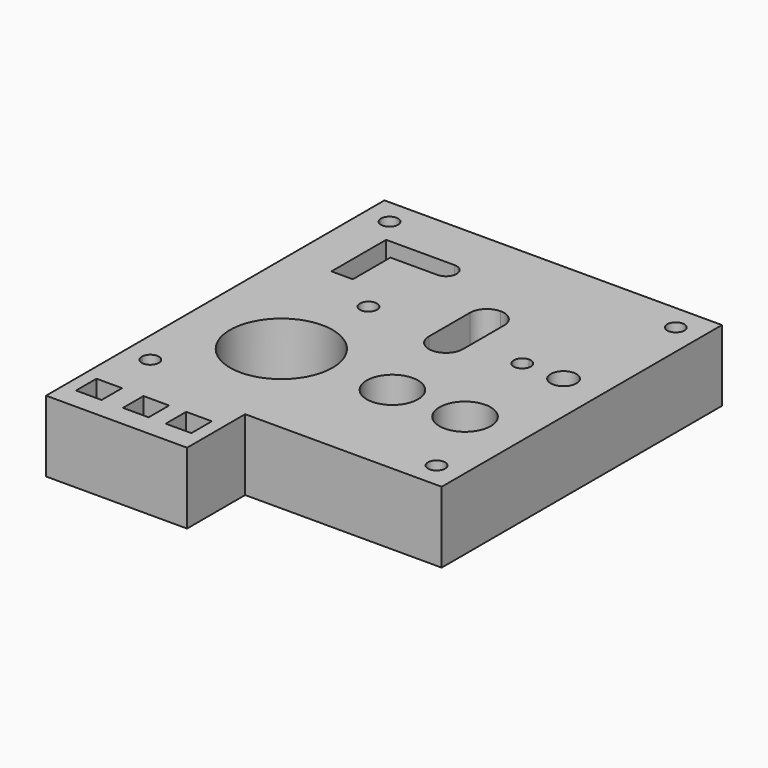
from build123d import *

# Parameters (mm, degrees)
F0_W     = 9
F0_H     = 9
F0_R     = 18
F0_R_2   = 9
F0_R_3   = 3
F0_R_4   = 4.5
F1_DEPTH = 25


with BuildPart() as f1:
    # F0 (on Top) → F1 (new body)
    with BuildSketch(Plane.XY):
        with BuildLine():
            Line((9, 0), (0, 0))
            Line((0, 0), (0, -9))
            Line((0, -9), (0, -18))
            Line((0, -18), (0, -52))
            Line((0, -52), (0, -114))
            Line((0, -114), (0, -132))
            Line((0, -132), (0, -148.5))
            Line((0, -148.5), (49.5, -148.5))
            Line((49.5, -148.5), (49.5, -123))
            Line((49.5, -123), (109.5, -123))
            Line((109.5, -123), (109.5, -117))
            ThreePointArc((109.5, -117), (107.3786796564, -111.8786796564), (112.5, -114))
            Line((112.5, -114), (118.5, -114))
            Line((118.5, -114), (118.5, -86.5))
            Line((118.5, -86.5), (118.5, -9))
            Line((118.5, -9), (118.5, 0))
            Line((118.5, 0), (109.5, 0))
            Line((109.5, 0), (90, 0))
            Line((90, 0), (66, 0))
            Line((66, 0), (39, 0))
            Line((39, 0), (9, 0))
        make_face()
        with Locations((9, -136.5)):
            Rectangle(F0_W, F0_H, mode=Mode.SUBTRACT)
        with Locations((25.5, -136.5)):
            Rectangle(F0_W, F0_H, mode=Mode.SUBTRACT)
        with BuildLine():
            ThreePointArc((9, -117), (6.8786796564, -116.1213203436), (6, -114))
            ThreePointArc((6, -114), (9, -111), (12, -114))
            ThreePointArc((12, -114), (11.1213203436, -116.1213203436), (9, -117))
        make_face(mode=Mode.SUBTRACT)
        with Locations((40.5, -136.5)):
            Rectangle(F0_W, F0_H, mode=Mode.SUBTRACT)
        with Locations((33, -86.5)):
            Circle(F0_R, mode=Mode.SUBTRACT)
        with Locations((72, -86.5)):
            Circle(F0_R_2, mode=Mode.SUBTRACT)
        with Locations((97.5, -86.5)):
            Circle(F0_R_2, mode=Mode.SUBTRACT)
        with BuildLine():
            ThreePointArc((39, -52), (36, -55), (33, -52))
            ThreePointArc((33, -52), (36, -49), (39, -52))
        make_face(mode=Mode.SUBTRACT)
        with BuildLine():
            Line((15, -18), (39, -18))
            ThreePointArc((39, -18), (42.75, -21.75), (39, -25.5))
            Line((39, -25.5), (22.5, -25.5))
            Line((22.5, -25.5), (22.5, -42))
            Line((22.5, -42), (15, -42))
            Line((15, -42), (15, -18))
        make_face(mode=Mode.SUBTRACT)
        with Locations((9, -9)):
            Circle(F0_R_3, mode=Mode.SUBTRACT)
        with BuildLine():
            ThreePointArc((66, -31.5), (70.2426406871, -33.2573593129), (72, -37.5))
            Line((72, -37.5), (72, -55.5))
            ThreePointArc((72, -55.5), (66, -61.5), (60, -55.5))
            Line((60, -55.5), (60, -37.5))
            ThreePointArc((60, -37.5), (61.7573593129, -33.2573593129), (66, -31.5))
        make_face(mode=Mode.SUBTRACT)
        with BuildLine():
            ThreePointArc((90, -49), (92.1213203436, -49.8786796564), (93, -52))
            ThreePointArc((93, -52), (87.8786796564, -54.1213203436), (90, -49))
        make_face(mode=Mode.SUBTRACT)
        with Locations((104.5, -52)):
            Circle(F0_R_4, mode=Mode.SUBTRACT)
        with Locations((109.5, -9)):
            Circle(F0_R_3, mode=Mode.SUBTRACT)
        with BuildLine():
            Line((118.5, -123), (118.5, -114))
            Line((118.5, -114), (112.5, -114))
            ThreePointArc((112.5, -114), (111.6213203436, -116.1213203436), (109.5, -117))
            Line((109.5, -117), (109.5, -123))
            Line((109.5, -123), (118.5, -123))
        make_face()
    extrude(amount=F1_DEPTH)


solid = f1.part
